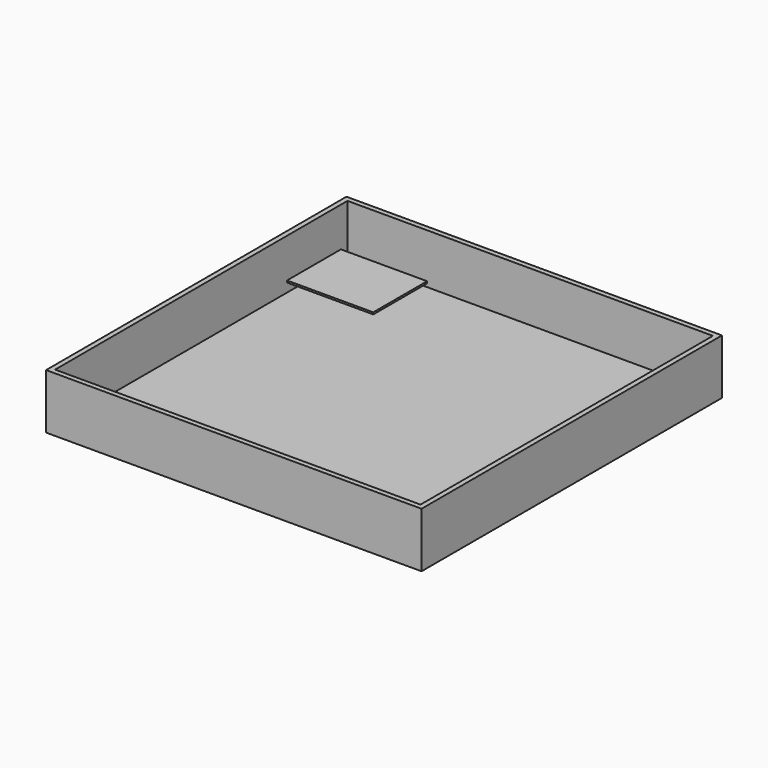
from build123d import *

# Parameters (mm, degrees)
F0_W     = 300
F0_H     = 300
F1_DEPTH = 4
F2_W     = 300
F2_H     = 300
F2_W_2   = 292
F2_H_2   = 292
F3_DEPTH = 40
F4_W     = 68.9
F4_H     = 1.5
F5_DEPTH = 53.8


with BuildPart() as f1:
    # F0 (on Top) → F1 (new body)
    with BuildSketch(Plane.XY):
        Rectangle(F0_W, F0_H)
    extrude(amount=F1_DEPTH)

    # F2 (on face) → F3 (join)
    with BuildSketch(Plane.XY.offset(4)):
        Rectangle(F2_W, F2_H)
        Rectangle(F2_W_2, F2_H_2, mode=Mode.SUBTRACT)
    extrude(amount=F3_DEPTH)


with BuildPart() as f5:
    # F4 (on Front) → F5 (new body)
    with BuildSketch(Plane.XZ):
        with Locations((0, 104.75)):
            Rectangle(F4_W, F4_H)
    extrude(amount=F5_DEPTH)


solid = Compound([f1.part, f5.part])
